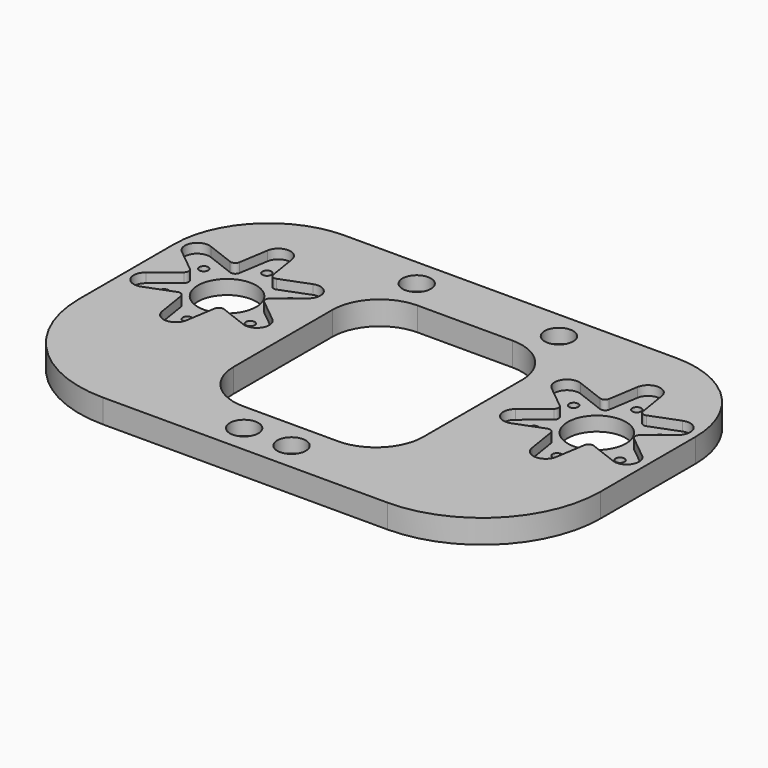
from build123d import *

# Parameters (mm, degrees)
PAD_DEPTH       = 5
POCKET_DEPTH    = 5
SKETCH002_R     = 1.6
POCKET001_DEPTH = 5
SKETCH003_R     = 3
POCKET002_DEPTH = 3
SKETCH004_R     = 6.15
POCKET003_DEPTH = 5
POCKET004_DEPTH = 2
SKETCH006_R     = 0.95
POCKET005_DEPTH = 3
FILLET_R        = 1


with BuildPart() as part:
    # Sketch → Pad (new body)
    with BuildSketch(Plane.XY):
        with BuildLine():
            Line((-35, 70), (35, 70))
            ThreePointArc((55, 50), (49.142136, 64.142136), (35, 70))
            Line((55, 50), (55, 25))
            ThreePointArc((30, 0), (47.67767, 7.32233), (55, 25))
            Line((30, 0), (-30, 0))
            ThreePointArc((-55, 25), (-47.67767, 7.32233), (-30, 0))
            Line((-55, 25), (-55, 50))
            ThreePointArc((-35, 70), (-49.142136, 64.142136), (-55, 50))
        make_face()
    extrude(amount=PAD_DEPTH)

    # Sketch001 (on Face10 of Pad) → Pocket (cut)
    with BuildSketch(Plane.XY.offset(5)):
        with BuildLine():
            Line((-10, 58), (10, 58))
            ThreePointArc((20, 48), (17.071068, 55.071068), (10, 58))
            Line((20, 48), (20, 22))
            ThreePointArc((10, 12), (17.071068, 14.928932), (20, 22))
            Line((10, 12), (-10, 12))
            ThreePointArc((-20, 22), (-17.071068, 14.928932), (-10, 12))
            Line((-20, 22), (-20, 48))
            ThreePointArc((-10, 58), (-17.071068, 55.071068), (-20, 48))
        make_face()
    extrude(amount=-POCKET_DEPTH, mode=Mode.SUBTRACT)

    # Sketch002 (on Face5 of Pocket) → Pocket001 (cut)
    with BuildSketch(Plane.XY.offset(5)):
        with Locations((-5, 6)):
            Circle(SKETCH002_R)
        with Locations((5, 6)):
            Circle(SKETCH002_R)
        with Locations((15, 64)):
            Circle(SKETCH002_R)
        with Locations((-15, 64)):
            Circle(SKETCH002_R)
    extrude(amount=-POCKET001_DEPTH, mode=Mode.SUBTRACT)

    # Sketch003 (on Face5 of Pocket001) → Pocket002 (cut)
    with BuildSketch(Plane.XY.offset(5)):
        with Locations((-15, 64)):
            Circle(SKETCH003_R)
        with Locations((15, 64)):
            Circle(SKETCH003_R)
        with Locations((-5, 6)):
            Circle(SKETCH003_R)
        with Locations((5, 6)):
            Circle(SKETCH003_R)
    extrude(amount=-POCKET002_DEPTH, mode=Mode.SUBTRACT)

    # Sketch004 (on Face5 of Pocket002) → Pocket003 (cut)
    with BuildSketch(Plane.XY.offset(5)):
        with Locations((-39, 44)):
            Circle(SKETCH004_R)
        with Locations((39, 44)):
            Circle(SKETCH004_R)
    extrude(amount=-POCKET003_DEPTH, mode=Mode.SUBTRACT)

    # Sketch005 (on Face5 of Pocket003) → Pocket004 (cut)
    with BuildSketch(Plane.XY.offset(5)):
        with BuildLine():
            ThreePointArc((-36.432447, 57.909479), (-39, 60.1), (-41.567553, 57.909479))
            Line((-41.567553, 57.909479), (-42.75, 50.495191))
            Line((-49.762186, 53.178305), (-42.75, 50.495191))
            ThreePointArc((-49.762186, 53.178305), (-52.943009, 52.05), (-52.329739, 48.731174))
            Line((-46.5, 44), (-52.329739, 48.731174))
            Line((-52.329739, 39.268826), (-46.5, 44))
            ThreePointArc((-52.329739, 39.268826), (-52.943009, 35.95), (-49.762186, 34.821695))
            Line((-42.75, 37.504809), (-49.762186, 34.821695))
            Line((-41.567553, 30.090521), (-42.75, 37.504809))
            ThreePointArc((-41.567553, 30.090521), (-39, 27.9), (-36.432447, 30.090521))
            Line((-35.25, 37.504809), (-36.432447, 30.090521))
            Line((-28.237814, 34.821695), (-35.25, 37.504809))
            ThreePointArc((-28.237814, 34.821695), (-25.056991, 35.95), (-25.670261, 39.268826))
            Line((-31.5, 44), (-25.670261, 39.268826))
            Line((-25.670261, 48.731174), (-31.5, 44))
            ThreePointArc((-25.670261, 48.731174), (-25.056991, 52.05), (-28.237814, 53.178305))
            Line((-35.25, 50.495191), (-28.237814, 53.178305))
            Line((-36.432447, 57.909479), (-35.25, 50.495191))
        make_face()
        with BuildLine():
            ThreePointArc((41.567553, 57.909479), (39, 60.1), (36.432447, 57.909479))
            Line((36.432447, 57.909479), (35.25, 50.495191))
            Line((35.25, 50.495191), (28.237814, 53.178305))
            ThreePointArc((28.237814, 53.178305), (25.056991, 52.05), (25.670261, 48.731174))
            Line((25.670261, 48.731174), (31.5, 44))
            Line((31.5, 44), (25.670261, 39.268826))
            ThreePointArc((25.670261, 39.268826), (25.056991, 35.95), (28.237814, 34.821695))
            Line((28.237814, 34.821695), (35.25, 37.504809))
            Line((35.25, 37.504809), (36.432447, 30.090521))
            ThreePointArc((36.432447, 30.090521), (39, 27.9), (41.567553, 30.090521))
            Line((41.567553, 30.090521), (42.75, 37.504809))
            Line((42.75, 37.504809), (49.762186, 34.821695))
            ThreePointArc((49.762186, 34.821695), (52.943009, 35.95), (52.329739, 39.268826))
            Line((52.329739, 39.268826), (46.5, 44))
            Line((46.5, 44), (52.329739, 48.731174))
            ThreePointArc((52.329739, 48.731174), (52.943009, 52.05), (49.762186, 53.178305))
            Line((49.762186, 53.178305), (42.75, 50.495191))
            Line((42.75, 50.495191), (41.567553, 57.909479))
        make_face()
    extrude(amount=-POCKET004_DEPTH, mode=Mode.SUBTRACT)

    # Sketch006 (on Face68 of Pocket004) → Pocket005 (cut)
    with BuildSketch(Plane.XY.offset(3)):
        with Locations((-39, 54.5)):
            Circle(SKETCH006_R)
        with Locations((-29.906733, 49.25)):
            Circle(SKETCH006_R)
        with Locations((-29.906733, 38.75)):
            Circle(SKETCH006_R)
        with Locations((-39, 33.5)):
            Circle(SKETCH006_R)
        with Locations((-48.093267, 38.75)):
            Circle(SKETCH006_R)
        with Locations((-48.093267, 49.25)):
            Circle(SKETCH006_R)
        with Locations((29.906733, 49.25)):
            Circle(SKETCH006_R)
        with Locations((39, 54.5)):
            Circle(SKETCH006_R)
        with Locations((48.093267, 49.25)):
            Circle(SKETCH006_R)
        with Locations((48.093267, 38.75)):
            Circle(SKETCH006_R)
        with Locations((39, 33.5)):
            Circle(SKETCH006_R)
        with Locations((29.906733, 38.75)):
            Circle(SKETCH006_R)
    extrude(amount=-POCKET005_DEPTH, mode=Mode.SUBTRACT)

    # Fillet
    fillet_edges = [part.edges().sort_by_distance(p)[0] for p in [
        (-42.75, 50.495191, 4),
        (-35.25, 50.495191, 4),
        (-31.5, 44, 4),
        (-46.5, 44, 4),
        (35.25, 50.495191, 4),
        (42.75, 50.495191, 4),
        (31.5, 44, 4),
        (46.5, 44, 4),
        (-42.75, 37.504809, 4),
        (-35.25, 37.504809, 4),
        (35.25, 37.504809, 4),
        (42.75, 37.504809, 4),
    ]]
    fillet(fillet_edges, radius=FILLET_R)


solid = part.part
